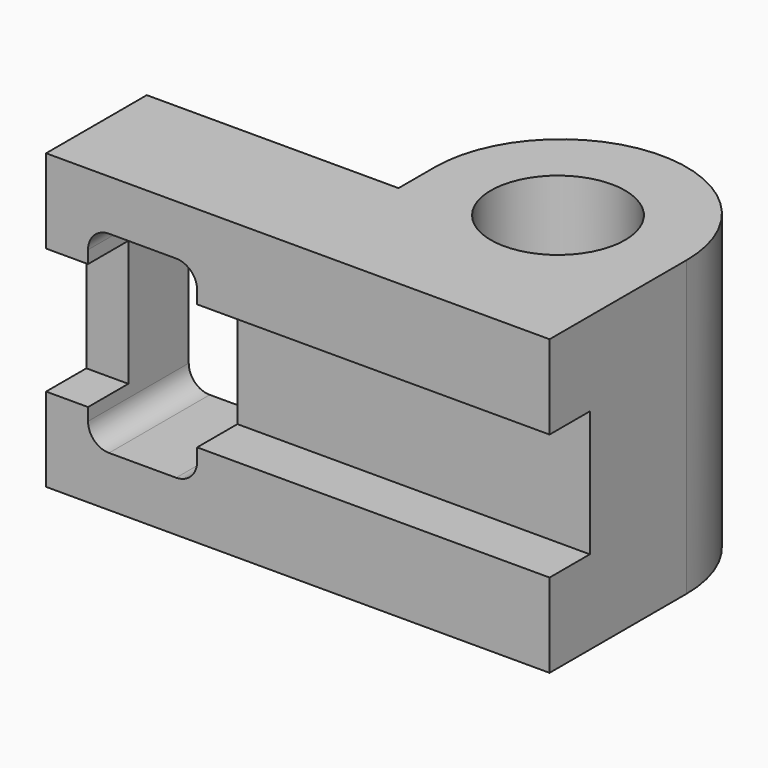
from build123d import *

# Parameters (mm, degrees)
F0_W      = 1200
F0_H      = 700
F1_DEPTH  = 300
F3_DEPTH  = 700
F5_W      = 240
F5_H      = 300
F6_DEPTH  = 1200.001
F7_W      = 260
F7_H      = 460
F8_DEPTH  = 300.001
F9_R      = 50
F10_R     = 160
F11_DEPTH = 700.001


with BuildPart() as f1:
    # F0 (on Front) → F1 (new body)
    with BuildSketch(Plane.XZ):
        Rectangle(F0_W, F0_H)
    extrude(amount=F1_DEPTH)

    # F2 (on face) → F3 (join)
    with BuildSketch(Plane.XY.offset(350)):
        with BuildLine():
            Line((0, 108.350513), (0, 0))
            Line((0, 0), (600, 0))
            Line((600, 0), (600, 108.350513))
            ThreePointArc((600, 108.350513), (300, 408.350513), (0, 108.350513))
        make_face()
    extrude(amount=-F3_DEPTH)

    # F5 (on face) → F6 (cut, through all)
    with BuildSketch(Plane.YZ.offset(600)):
        with Locations((-300, 0)):
            Rectangle(F5_W, F5_H)
    extrude(amount=-F6_DEPTH, mode=Mode.SUBTRACT)

    # F7 (on face) → F8 (cut, through all)
    with BuildSketch(Plane(origin=(0, 0, 0), x_dir=(-1, 0, 0), z_dir=(0, 1, 0))):
        with Locations((370, 0)):
            Rectangle(F7_W, F7_H)
    extrude(amount=-F8_DEPTH, mode=Mode.SUBTRACT)

    # F9
    f9_edges = [f1.edges().sort_by_distance(p)[0] for p in [
        (-240, -150, -230),
        (-240, -150, 230),
        (-500, -150, 230),
        (-500, -150, -230),
    ]]
    fillet(f9_edges, radius=F9_R)

    # F10 (on face) → F11 (cut, through all)
    with BuildSketch(Plane.XY.offset(350)):
        with Locations((300, 100)):
            Circle(F10_R)
    extrude(amount=-F11_DEPTH, mode=Mode.SUBTRACT)


solid = f1.part
